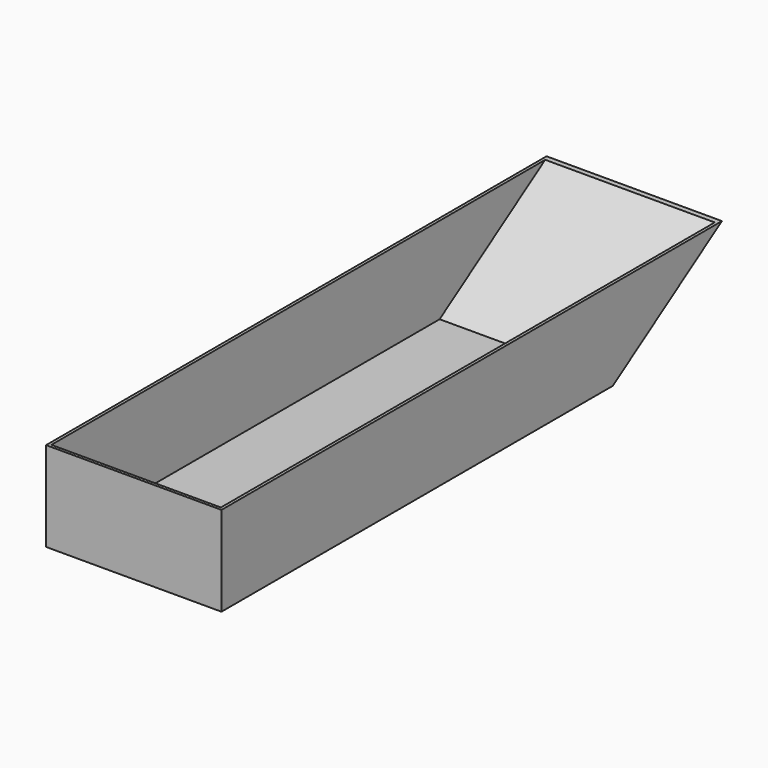
from build123d import *

# Parameters (mm, degrees)
F1_DEPTH = 180
F2_T     = -3


with BuildPart() as f1:
    # F0 (on Right) → F1 (new body)
    with BuildSketch(Plane.YZ):
        Polygon((-251, 46), (-251, -46), (251, -46), (391, 46), (251, 46), align=None)
    extrude(amount=F1_DEPTH)

    # F2
    f2_openings = [f1.faces().sort_by_distance(p)[0] for p in [
        (90, 70, 46),
    ]]
    offset(amount=F2_T, openings=f2_openings)


solid = f1.part
